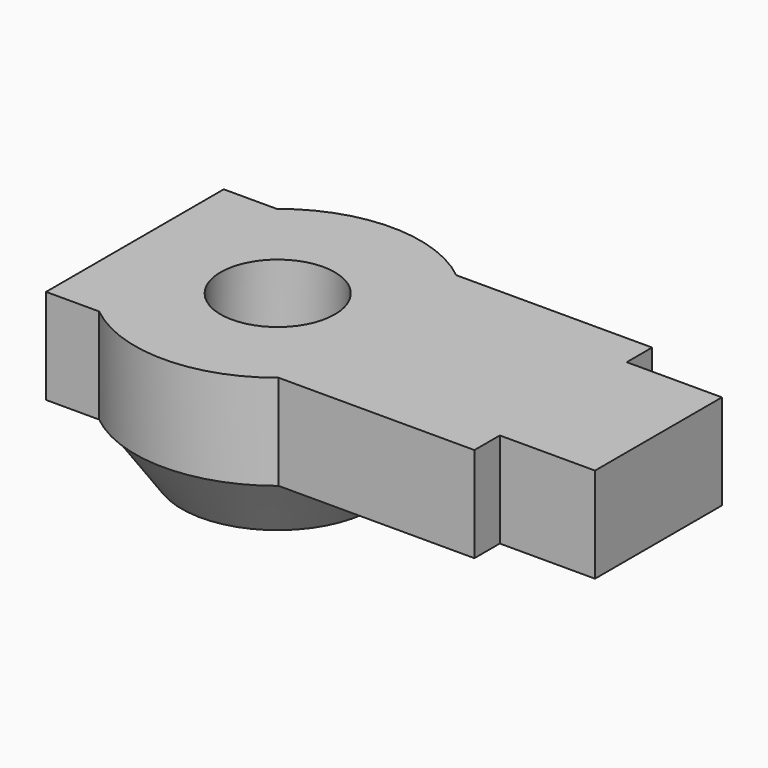
from build123d import *

# Parameters (mm, degrees)
SKETCH164_R     = 1.8
PAD127002_DEPTH = 3


with BuildPart() as innerbearingrace:
    # Sketch165 → Revolution008 (revolve)
    with BuildSketch(Plane(origin=(50, 160, 10), x_dir=(1, 0, 0), z_dir=(0, -1, 0))):
        Polygon((4.423355, 2), (3.02294, 0), (1.8, 0), (1.8, 2), align=None)
    revolve(axis=Axis((50, 160, 10), (0, 0, 1)))


with BuildPart() as steeringcolumn_short:
    # Sketch164 → Pad127002 (new body)
    with BuildSketch(Plane(origin=(50, 160, 12), x_dir=(1, 0, 0), z_dir=(0, 0, 1))):
        with BuildLine():
            Line((9, 3.5), (2.828427, 3.5))
            ThreePointArc((2.828427, 3.5), (0, 4.5), (-2.828427, 3.5))
            Line((-2.828427, 3.5), (-4.5, 3.5))
            Line((-4.5, 3.5), (-4.5, -3.5))
            Line((-4.5, -3.5), (-2.828427, -3.5))
            ThreePointArc((-2.828427, -3.5), (0, -4.5), (2.828427, -3.5))
            Line((2.828427, -3.5), (9, -3.5))
            Line((9, -2.5), (9, -3.5))
            Line((12, -2.5), (9, -2.5))
            Line((12, 2.5), (12, -2.5))
            Line((9, 2.5), (12, 2.5))
            Line((9, 3.5), (9, 2.5))
        make_face()
        Circle(SKETCH164_R, mode=Mode.SUBTRACT)
    extrude(amount=PAD127002_DEPTH)

    # Fusion004020021: union InnerBearingRace
    add(innerbearingrace.part)


solid = steeringcolumn_short.part
